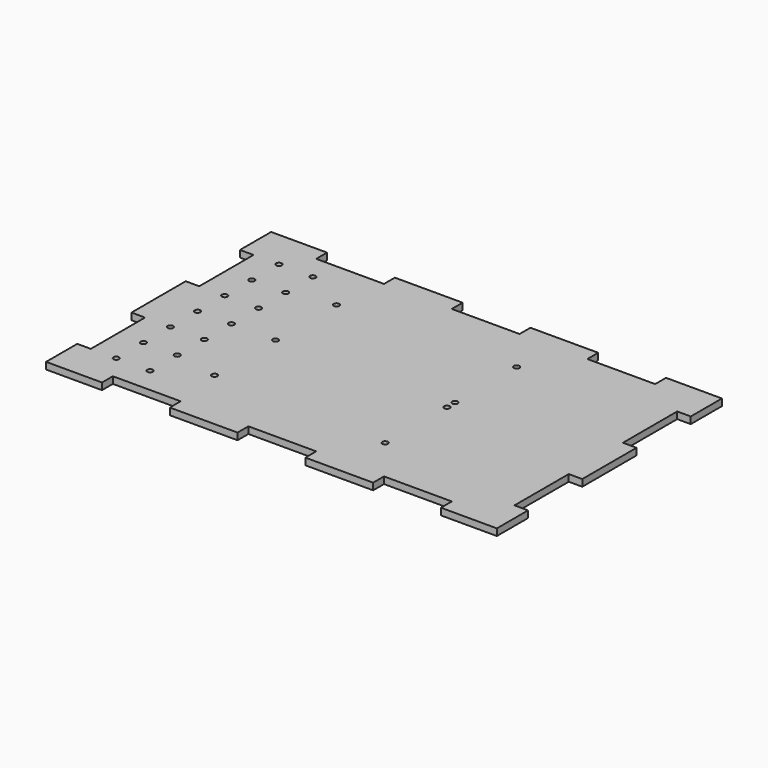
from build123d import *

# Parameters (mm, degrees)
SKETCH001_W                   = 266
SKETCH001_H                   = 166
PAD_DEPTH                     = 4
SKETCH016_W                   = 30
SKETCH016_H                   = 40
SKETCH016_W_2                 = 40
SKETCH016_H_2                 = 30
POCKET001_DEPTH               = 631.146916
SKETCH016_MIRRORED002_2_W     = 30
SKETCH016_MIRRORED002_2_H     = 40
SKETCH016_MIRRORED002_2_W_2   = 40
SKETCH016_MIRRORED002_2_H_2   = 30
POCKET001_MIRRORED002_2_DEPTH = 631.146916
SKETCH035_R                   = 1.65
HOLE001_DEPTH                 = 4.001


with BuildPart() as part:
    # Sketch001 → Pad (new body)
    with BuildSketch(Plane.XY):
        Rectangle(SKETCH001_W, SKETCH001_H)
    extrude(amount=-PAD_DEPTH)

    # Sketch016 (on Face6 of Pad) → Pocket001 (cut, through all)
    with BuildSketch(Plane(origin=(0, 0, -4), x_dir=(1, 0, 0), z_dir=(0, 0, -1))):
        with Locations((140, 40)):
            Rectangle(SKETCH016_W, SKETCH016_H)
        with Locations((140, -40)):
            Rectangle(SKETCH016_W, SKETCH016_H)
        with Locations((80, -90)):
            Rectangle(SKETCH016_W_2, SKETCH016_H_2)
        with Locations((0, -90)):
            Rectangle(SKETCH016_W_2, SKETCH016_H_2)
        with Locations((-80, -90)):
            Rectangle(SKETCH016_W_2, SKETCH016_H_2)
    pocket001 = extrude(amount=-POCKET001_DEPTH, mode=Mode.SUBTRACT)

    # Sketch016 Mirrored002 2 → Pocket001 Mirrored002 2 (cut, through all)
    with BuildSketch(Plane(origin=(0, 0, -4), x_dir=(-1, 0, 0), z_dir=(0, 0, 1))):
        with Locations((140, 40)):
            Rectangle(SKETCH016_MIRRORED002_2_W, SKETCH016_MIRRORED002_2_H)
        with Locations((140, -40)):
            Rectangle(SKETCH016_MIRRORED002_2_W, SKETCH016_MIRRORED002_2_H)
        with Locations((80, -90)):
            Rectangle(SKETCH016_MIRRORED002_2_W_2, SKETCH016_MIRRORED002_2_H_2)
        with Locations((0, -90)):
            Rectangle(SKETCH016_MIRRORED002_2_W_2, SKETCH016_MIRRORED002_2_H_2)
        with Locations((-80, -90)):
            Rectangle(SKETCH016_MIRRORED002_2_W_2, SKETCH016_MIRRORED002_2_H_2)
    pocket001_mirrored002_2 = extrude(amount=POCKET001_MIRRORED002_2_DEPTH, mode=Mode.SUBTRACT)

    # Mirrored003: Pocket001, Pocket001 Mirrored002 2 across Sketch016 H_Axis
    add(pocket001.mirror(Plane(origin=(0, 0, -4), x_dir=(0, 0, -1), z_dir=(0, -1, 0))), mode=Mode.SUBTRACT)
    add(pocket001_mirrored002_2.mirror(Plane(origin=(0, 0, -4), x_dir=(0, 0, -1), z_dir=(0, -1, 0))), mode=Mode.SUBTRACT)

    # Sketch035 (on Face2 of MultiTransform) → Hole001 (cut, through all)
    with BuildSketch(Plane.XY):
        with Locations((-64, 45)):
            Circle(SKETCH035_R)
        with Locations((39.5, 48.5)):
            Circle(SKETCH035_R)
        with Locations((39.5, 3)):
            Circle(SKETCH035_R)
        with Locations((39.5, -3)):
            Circle(SKETCH035_R)
        with Locations((39.5, -48.5)):
            Circle(SKETCH035_R)
        with Locations((-64, -45)):
            Circle(SKETCH035_R)
        with Locations((-64, 0)):
            Circle(SKETCH035_R)
        with Locations((-110, -60)):
            Circle(SKETCH035_R)
        with Locations((-90, -60)):
            Circle(SKETCH035_R)
        with Locations((-110, -40)):
            Circle(SKETCH035_R)
        with Locations((-90, -40)):
            Circle(SKETCH035_R)
        with Locations((-110, -20)):
            Circle(SKETCH035_R)
        with Locations((-90, -20)):
            Circle(SKETCH035_R)
        with Locations((-110, 0)):
            Circle(SKETCH035_R)
        with Locations((-90, 0)):
            Circle(SKETCH035_R)
        with Locations((-110, 20)):
            Circle(SKETCH035_R)
        with Locations((-90, 20)):
            Circle(SKETCH035_R)
        with Locations((-110, 40)):
            Circle(SKETCH035_R)
        with Locations((-90, 40)):
            Circle(SKETCH035_R)
        with Locations((-110, 60)):
            Circle(SKETCH035_R)
        with Locations((-90, 60)):
            Circle(SKETCH035_R)
    extrude(amount=-HOLE001_DEPTH, mode=Mode.SUBTRACT)


solid = part.part
